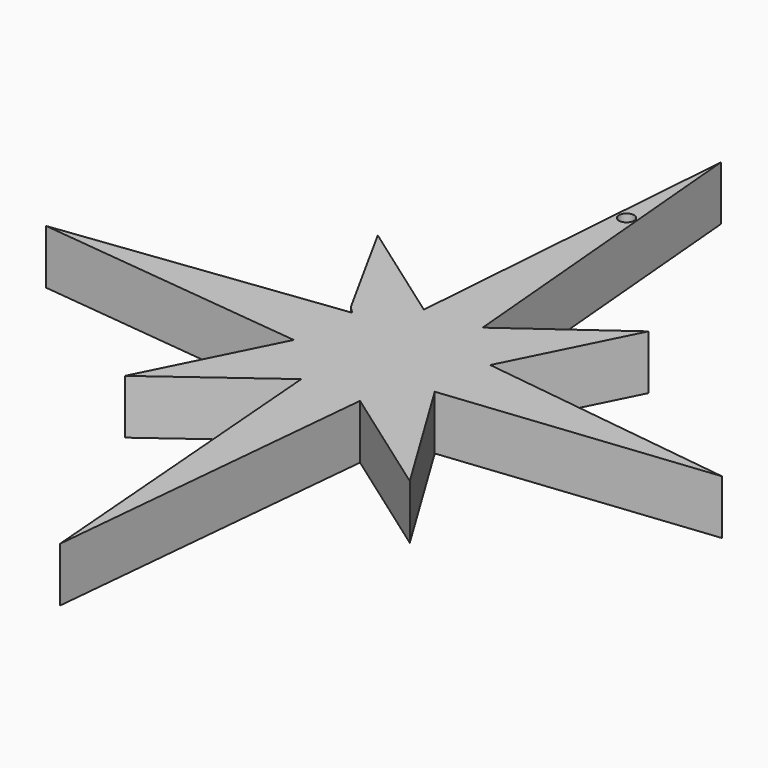
from build123d import *

# Parameters (mm, degrees)
F1_DEPTH = 5
F2_R     = 0.696378
F3_DEPTH = 5


with BuildPart() as f1:
    # F0 (on Top) → F1 (new body)
    with BuildSketch(Plane.XY):
        Polygon((-28.949716, 45.219105), (-31.651066, 75.962557), (-33.996041, 44.764464), (-43.799482, 51.720972), (-38.344797, 41.803356), (-37.714586, 41.173149), (-63.302131, 37.981279), (-38.344797, 35.250764), (-44.320436, 23.317257), (-34.117908, 30.828042), (-31.651066, 0), (-28.716104, 30.828042), (-18.131549, 23.317257), (-25.413014, 35.288201), (-1.100581, 37.901219), (-24.893903, 41.014366), (-19.294596, 52.196325), align=None)
    extrude(amount=F1_DEPTH)

    # F2 (on face) → F3 (cut)
    with BuildSketch(Plane.XY.offset(5)):
        with Locations((-31.538468, 64.986169)):
            Circle(F2_R)
    extrude(amount=-F3_DEPTH, mode=Mode.SUBTRACT)


solid = f1.part
